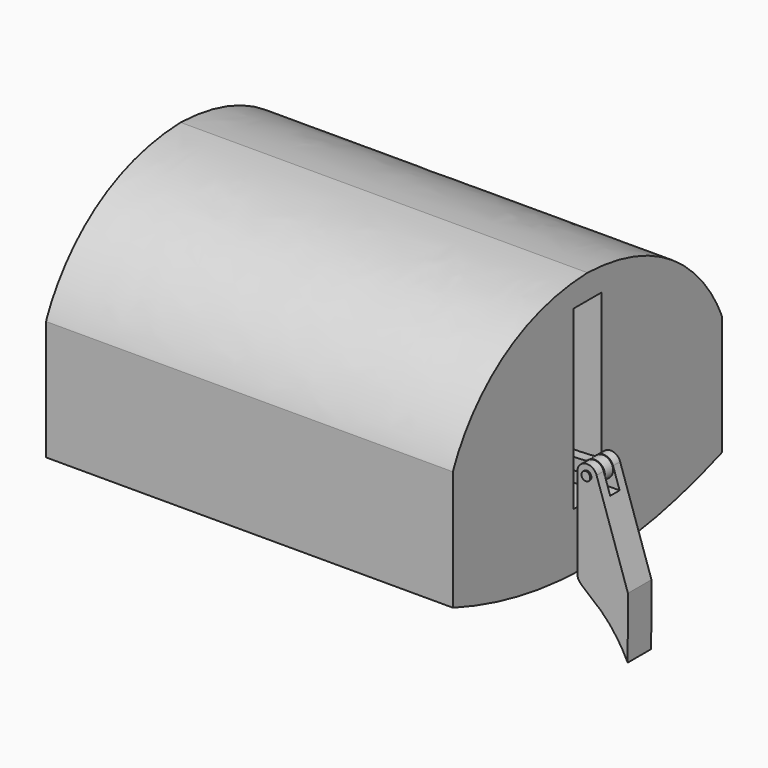
from build123d import *

# Parameters (mm, degrees)
BOX_W               = 100
BOX_H               = 40
BOX_DEPTH           = 100
CYLINDER_R          = 15
CYLINDER_DEPTH      = 110
CYLINDER_ROLL_ANGLE = 90
BOX001_W            = 100
BOX001_H            = 120
BOX001_DEPTH        = 600


with BuildPart() as cube:
    # Box → Box (new body)
    with BuildSketch(Plane(origin=(4896, -20, -56), x_dir=(1, 0, 0), z_dir=(0, 0, 1))):
        with Locations((50, 20)):
            Rectangle(BOX_W, BOX_H)
    extrude(amount=BOX_DEPTH)


with BuildPart() as cut:
    # Sweep: sweep along a path in Sketch001
    with BuildLine(Plane.YZ) as sweep_path:
        Line((50, -102.428871), (-50, -102.428871))
    # Sketch → Sweep (sweep)
    with BuildSketch(Plane.XZ):
        with BuildLine():
            Line((5079.153809, -307.963104), (4972.606463, 10.450841))
            ThreePointArc((4972.606463, 10.450841), (4938.873384, 33.689038), (4907.556965, 7.284185))
            Line((4907.556965, 7.284185), (4907.556965, -308.010559))
            add(Edge.make_bspline(
                [(4907.556965, -308.010559), (4907.383301, -349.562683), (5004.027832, -362.999908), (5078.214844, -516.165161)],
                knots=[0, 0, 0, 0, 1, 1, 1, 1], degree=3))
            Line((5078.214844, -516.165161), (5079.153809, -307.963104))
        make_face()
    sweep(path=sweep_path.line)

    # Cut: cut Cube
    add(cube.part, mode=Mode.SUBTRACT)


with BuildPart() as sweep001:
    # Sweep001: sweep along a path in Sketch003
    with BuildLine(Plane.YZ) as sweep001_path:
        Line((-17.5, 9.106207), (17.5, 9.106207))
    # Sketch002 → Sweep001 (sweep)
    with BuildSketch(Plane.XZ):
        with BuildLine():
            ThreePointArc((4915.374023, -25.172308), (4974.847231, -0.721441), (4914.942648, 22.652655))
            add(Edge.make_bspline(
                [(4914.942648, 22.652655), (4909.000488, 16.828678), (4734.095215, 17.049467)],
                knots=[0, 0, 0, 1, 1, 1], degree=2))
            Line((4734.095215, 17.049467), (4734.095215, -18.860974))
            add(Edge.make_bspline(
                [(4915.374023, -25.172308), (4908.810547, -19.087299), (4734.095215, -18.860974)],
                knots=[0, 0, 0, 1, 1, 1], degree=2))
        make_face()
    sweep(path=sweep001_path.line)


with BuildPart() as cylinder:
    # Cylinder → Cylinder (new body)
    with BuildSketch(Plane.XY):
        Circle(CYLINDER_R)
    extrude(amount=CYLINDER_DEPTH)


with BuildPart() as cylinder_1:
    # Cylinder roll: moved
    add(cylinder.part.rotate(Axis((0, 0, 0), (1, 0, 0)), CYLINDER_ROLL_ANGLE))


with BuildPart() as cylinder_2:
    # Cylinder placement: moved
    add(cylinder_1.part.moved(Location((4940, 55, -1))))


with BuildPart() as cube001:
    # Box001 → Box001 (new body)
    with BuildSketch(Plane(origin=(4805, -60, -110), x_dir=(1, 0, 0), z_dir=(0, 0, 1))):
        with Locations((50, 60)):
            Rectangle(BOX001_W, BOX001_H)
    extrude(amount=BOX001_DEPTH)


with BuildPart() as sweep002:
    # Sweep002: sweep along a path in Sketch005
    with BuildLine(Plane.XZ) as sweep002_path:
        Line((4901.525879, 0.31053), (3518.000977, 0.31053))
    # Sketch004 → Sweep002 (sweep)
    with BuildSketch(Plane.YZ.offset(4700)):
        with BuildLine():
            add(Edge.make_bspline(
                [(0, 573.341003), (-451.187195, 557.981873), (-571.498, 209.848953), (-571.498, 209.848953)],
                knots=[0, 0, 0, 0, 1, 1, 1, 1], degree=3))
            Line((-571.498, 209.848953), (-571.498, -197.16))
            add(Edge.make_bspline(
                [(-571.498, -197.16), (-276.684204, -306.229828), (0, -304.212738)],
                knots=[0, 0, 0, 1, 1, 1], degree=2))
            Line((0, -304.212738), (0, 573.341003))
        make_face()
    sweep(path=sweep002_path.line)


with BuildPart() as cut001:
    # Part__Mirroring: instance of Sweep002
    add(sweep002.part.mirror(Plane(origin=(0, 0, 0), x_dir=(1, 0, 0), z_dir=(0, 1, 0))))

    # Fusion: union Sweep002
    add(sweep002.part)

    # Cut001: cut Cube001
    add(cube001.part, mode=Mode.SUBTRACT)


solid = Compound([cut.part, sweep001.part, cylinder_2.part, cut001.part])
